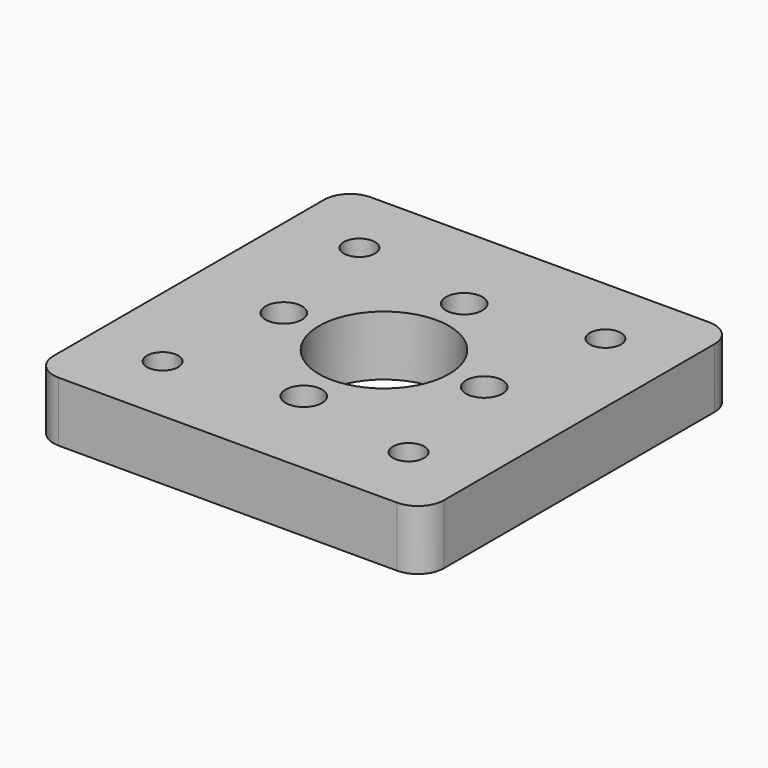
from build123d import *

# Parameters (mm, degrees)
F0_R     = 1.524
F0_R_2   = 1.778
F0_R_3   = 6.35
F1_DEPTH = 5.842


with BuildPart() as f1:
    # F0 (on Top) → F1 (new body)
    with BuildSketch(Plane.XY):
        with BuildLine():
            Line((16.51, 19.05), (-16.51, 19.05))
            ThreePointArc((-16.51, 19.05), (-18.306051, 18.306051), (-19.05, 16.51))
            Line((-19.05, 16.51), (-19.05, -16.51))
            ThreePointArc((-19.05, -16.51), (-18.306051, -18.306051), (-16.51, -19.05))
            Line((-16.51, -19.05), (16.51, -19.05))
            ThreePointArc((16.51, -19.05), (18.306051, -18.306051), (19.05, -16.51))
            Line((19.05, -16.51), (19.05, 16.51))
            ThreePointArc((19.05, 16.51), (18.306051, 18.306051), (16.51, 19.05))
        make_face()
        with Locations((-12, -12)):
            Circle(F0_R, mode=Mode.SUBTRACT)
        with Locations((0, -9.779)):
            Circle(F0_R_2, mode=Mode.SUBTRACT)
        with Locations((12, -12)):
            Circle(F0_R, mode=Mode.SUBTRACT)
        with Locations((-9.779, 0)):
            Circle(F0_R_2, mode=Mode.SUBTRACT)
        with Locations((-12, 12)):
            Circle(F0_R, mode=Mode.SUBTRACT)
        Circle(F0_R_3, mode=Mode.SUBTRACT)
        with Locations((9.779, 0)):
            Circle(F0_R_2, mode=Mode.SUBTRACT)
        with Locations((0, 9.779)):
            Circle(F0_R_2, mode=Mode.SUBTRACT)
        with Locations((12, 12)):
            Circle(F0_R, mode=Mode.SUBTRACT)
    extrude(amount=F1_DEPTH)


solid = f1.part
